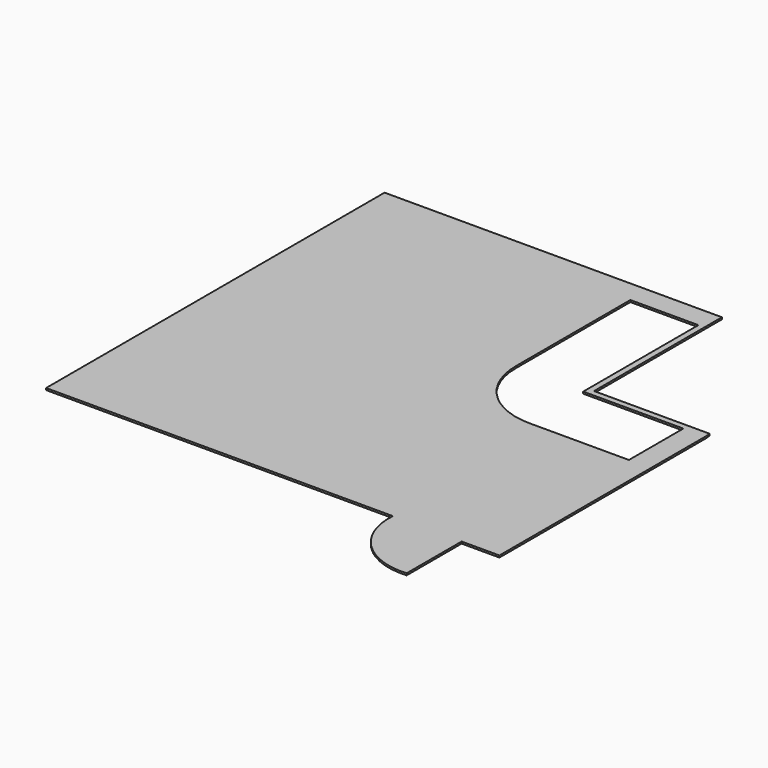
from build123d import *

# Parameters (mm, degrees)
F0_W     = 450
F0_H     = 290
F0_W_2   = 290
F0_H_2   = 450
F1_DEPTH = 25


with BuildPart() as f1:
    # F0 (on Top) → F1 (new body)
    with BuildSketch(Plane.XY):
        with BuildLine():
            Line((61.33711, 2854.905434), (-3423.66289, 2854.905434))
            Line((-3423.66289, 2854.905434), (-3423.66289, -2745.094566))
            Line((-3423.66289, -2745.094566), (1166.33711, -2745.094566))
            ThreePointArc((1166.33711, -2745.094566), (1411.869148, -3409.562528), (2076.33711, -3655.094566))
            Line((2076.33711, -3655.094566), (2076.33711, -2827.612638))
            Line((2076.33711, -2827.612638), (2076.33711, -2745.094566))
            Line((2076.33711, -2745.094566), (2576.33711, -2745.094566))
            Line((2576.33711, -2745.094566), (2576.33711, -240.094566))
            Line((2576.33711, -240.094566), (2286.33711, -240.094566))
            Line((2286.33711, -240.094566), (1996.33711, -240.094566))
            Line((1996.33711, -240.094566), (1706.33711, -240.094566))
            Line((1706.33711, -240.094566), (1416.33711, -240.094566))
            Line((1416.33711, -240.094566), (971.33711, -240.094566))
            ThreePointArc((971.33711, -240.094566), (327.86994, 26.438263), (61.33711, 669.905434))
            Line((61.33711, 669.905434), (61.33711, 1114.905434))
            Line((61.33711, 1114.905434), (61.33711, 1404.905434))
            Line((61.33711, 1404.905434), (61.33711, 1694.905434))
            Line((61.33711, 1694.905434), (61.33711, 1984.905434))
            Line((61.33711, 1984.905434), (61.33711, 2274.905434))
            Line((61.33711, 2274.905434), (61.33711, 2564.905434))
            Line((61.33711, 2564.905434), (61.33711, 2854.905434))
        make_face()
        with Locations((286.33711, 2709.905434)):
            Rectangle(F0_W, F0_H)
        with Locations((736.33711, 2709.905434)):
            Rectangle(F0_W, F0_H)
        Polygon((1041.33711, 2854.905434), (961.33711, 2854.905434), (961.33711, 2564.905434), (961.33711, 2274.905434), (961.33711, 1984.905434), (961.33711, 1694.905434), (961.33711, 1404.905434), (961.33711, 1114.905434), (961.33711, 659.905434), (1416.33711, 659.905434), (1706.33711, 659.905434), (1996.33711, 659.905434), (2286.33711, 659.905434), (2576.33711, 659.905434), (2569.717802, 739.631118), (1041.33711, 739.631118), align=None)
        with Locations((2431.33711, -15.094566)):
            Rectangle(F0_W_2, F0_H_2)
        with Locations((2431.33711, 434.905434)):
            Rectangle(F0_W_2, F0_H_2)
    extrude(amount=F1_DEPTH)


solid = f1.part
